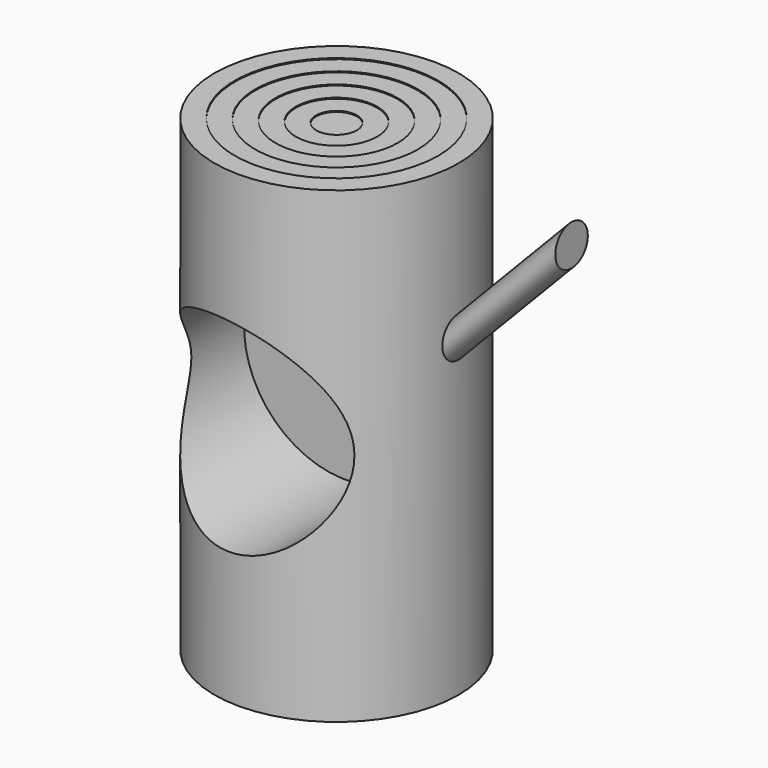
from build123d import *

# Parameters (mm, degrees)
F3_R      = 50
F4_DEPTH  = 75
F5_R      = 50
F6_DEPTH  = 0.5
F7_R      = 40
F8_DEPTH  = 0.5
F9_R      = 30
F10_DEPTH = 0.5
F11_R     = 20
F12_DEPTH = 0.5
F13_R     = 10
F14_DEPTH = 0.5
F16_R     = 10


with BuildPart() as f2:
    # F1 (on Front) → F2 (revolve)
    with BuildSketch(Plane.XZ):
        Polygon((0, 115), (0, 0), (0, -115), (60, -115), (60, 115), align=None)
    revolve(axis=Axis((0, 0, 57.5), (0, 0, 1)))

    # F3 (on offset) → F4 (cut)
    with BuildSketch(Plane.XZ.offset(60)):
        with Locations((-7.399289, 0)):
            Circle(F3_R)
    extrude(amount=-F4_DEPTH, mode=Mode.SUBTRACT)

    # F5 (on face) → F6 (cut)
    with BuildSketch(Plane.XY.offset(115)):
        Circle(F5_R)
    extrude(amount=-F6_DEPTH, mode=Mode.SUBTRACT)

    # F7 (on face) → F8 (cut)
    with BuildSketch(Plane.XY.offset(114.5)):
        Circle(F7_R)
    extrude(amount=-F8_DEPTH, mode=Mode.SUBTRACT)

    # F9 (on face) → F10 (cut)
    with BuildSketch(Plane.XY.offset(114)):
        Circle(F9_R)
    extrude(amount=-F10_DEPTH, mode=Mode.SUBTRACT)

    # F11 (on face) → F12 (cut)
    with BuildSketch(Plane.XY.offset(113.5)):
        Circle(F11_R)
    extrude(amount=-F12_DEPTH, mode=Mode.SUBTRACT)

    # F13 (on face) → F14 (cut)
    with BuildSketch(Plane.XY.offset(113)):
        Circle(F13_R)
    extrude(amount=-F14_DEPTH, mode=Mode.SUBTRACT)

    # F18: sweep along a path in F17
    with BuildLine(Plane.XZ) as f18_path:
        Line((60.510088, 39.84075), (115.99975, 97.467979))
    # F16 (on offset) → F18 (sweep)
    with BuildSketch(Plane.YZ.offset(60)):
        with Locations((0, 40)):
            Circle(F16_R)
    sweep(path=f18_path.line)


solid = f2.part
